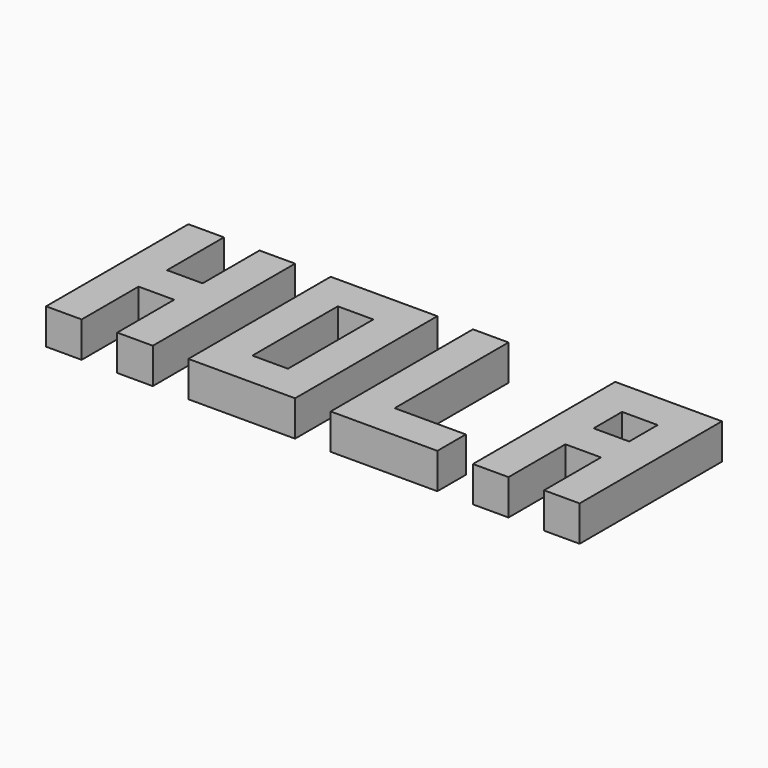
from build123d import *

# Parameters (mm, degrees)
PAD_DEPTH     = 10
SKETCH001_W   = 30
SKETCH001_H   = 50
SKETCH001_W_2 = 10
SKETCH001_H_2 = 30
PAD001_DEPTH  = 10
PAD002_DEPTH  = 10
SKETCH003_W   = 10
SKETCH003_H   = 10
PAD003_DEPTH  = 10


with BuildPart() as obj1:
    # Sketch → Pad (new body)
    with BuildSketch(Plane(origin=(-80, 0, 0), x_dir=(1, 0, 0), z_dir=(0, 0, 1))):
        Polygon((0, 0), (10, 0), (10, 20), (20, 20), (20, 0), (30, 0), (30, 50), (20, 50), (20, 30), (10, 30), (10, 50), (0, 50), align=None)
    extrude(amount=PAD_DEPTH)


with BuildPart() as obj2:
    # Sketch001 → Pad001 (new body)
    with BuildSketch(Plane(origin=(-40, 0, 0), x_dir=(1, 0, 0), z_dir=(0, 0, 1))):
        with Locations((15, 25)):
            Rectangle(SKETCH001_W, SKETCH001_H)
        with Locations((15, 25)):
            Rectangle(SKETCH001_W_2, SKETCH001_H_2, mode=Mode.SUBTRACT)
    extrude(amount=PAD001_DEPTH)


with BuildPart() as obj3:
    # Sketch002 → Pad002 (new body)
    with BuildSketch(Plane.XY):
        Polygon((0, 50), (0, 0), (30, 0), (30, 10), (10, 10), (10, 50), align=None)
    extrude(amount=PAD002_DEPTH)


with BuildPart() as obj4:
    # Sketch003 → Pad003 (new body)
    with BuildSketch(Plane(origin=(40, 0, 0), x_dir=(1, 0, 0), z_dir=(0, 0, 1))):
        Polygon((0, 0), (0, 50), (30, 50), (30, 0), (20, 0), (20, 20), (10, 20), (10, 0), align=None)
        with Locations((15.098105, 34.798059)):
            Rectangle(SKETCH003_W, SKETCH003_H, mode=Mode.SUBTRACT)
    extrude(amount=PAD003_DEPTH)


solid = Compound([obj1.part, obj2.part, obj3.part, obj4.part])
